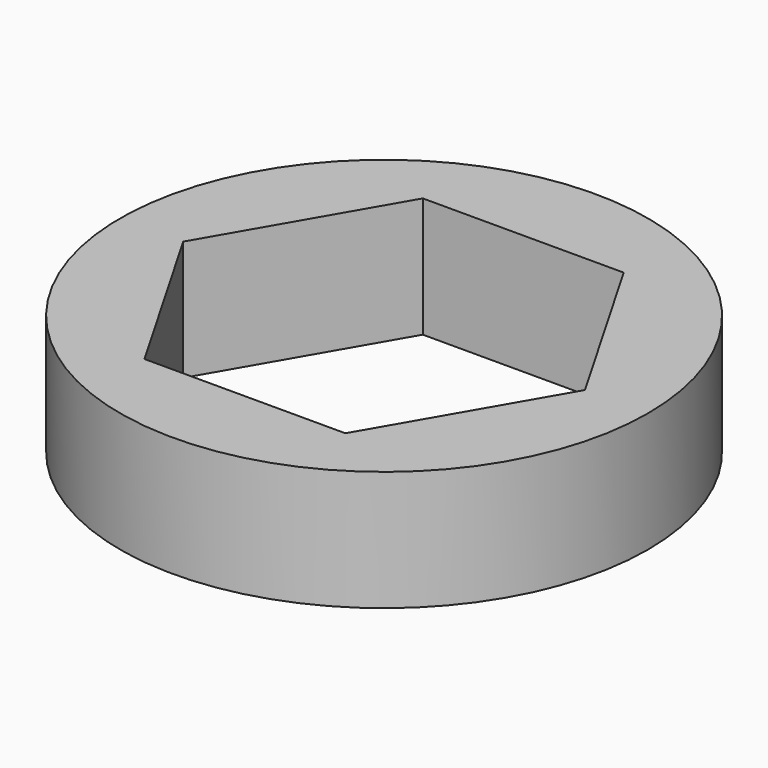
from build123d import *

# Parameters (mm, degrees)
F0_R     = 11
F1_DEPTH = 5


with BuildPart() as f1:
    # F0 (on Top) → F1 (new body)
    with BuildSketch(Plane.XY):
        with Locations((1.1096, 28.294764)):
            Circle(F0_R)
        Polygon((-7.261979, 28.294764), (-3.076189, 35.544764), (5.29539, 35.544764), (9.481179, 28.294764), (5.29539, 21.044764), (-3.076189, 21.044764), align=None, mode=Mode.SUBTRACT)
    extrude(amount=F1_DEPTH)


solid = f1.part
